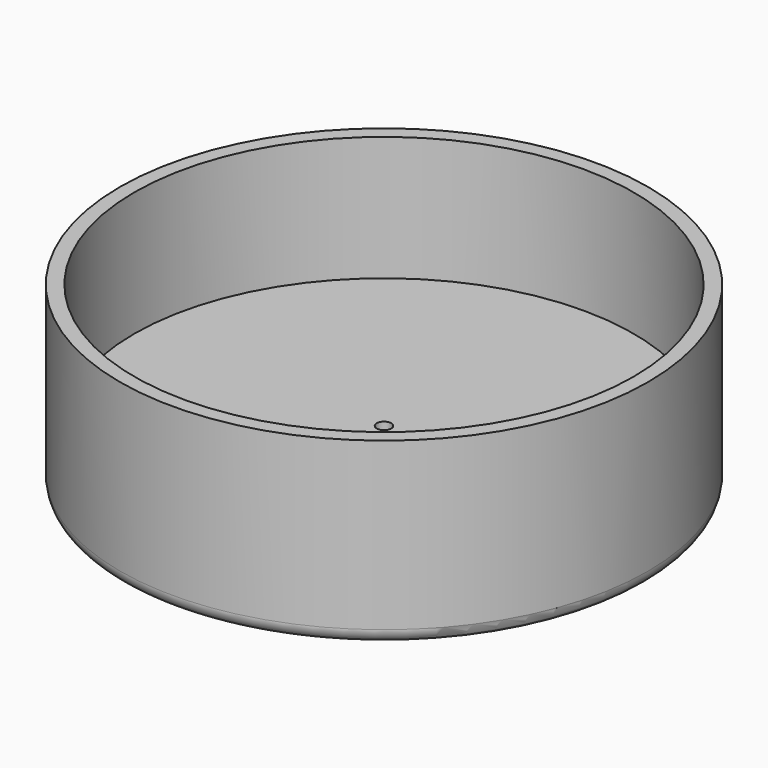
from build123d import *

# Parameters (mm, degrees)
F0_R     = 36.5
F1_DEPTH = 25
F2_R     = 2
F3_R     = 34.5
F4_DEPTH = 17.2
F5_R     = 1
F6_DEPTH = 25


with BuildPart() as f1:
    # F0 (on Top) → F1 (new body)
    with BuildSketch(Plane.XY):
        Circle(F0_R)
    extrude(amount=F1_DEPTH)

    # F2
    f2_edges = [f1.edges().sort_by_distance(p)[0] for p in [
        (-36.5, 0, 0),
    ]]
    fillet(f2_edges, radius=F2_R)

    # F3 (on face) → F4 (cut)
    with BuildSketch(Plane.XY.offset(25)):
        Circle(F3_R)
    extrude(amount=-F4_DEPTH, mode=Mode.SUBTRACT)

    # F5 (on face) → F6 (cut)
    with BuildSketch(Plane.XY.offset(7.8)):
        Circle(F5_R)
    extrude(amount=-F6_DEPTH, mode=Mode.SUBTRACT)


solid = f1.part
